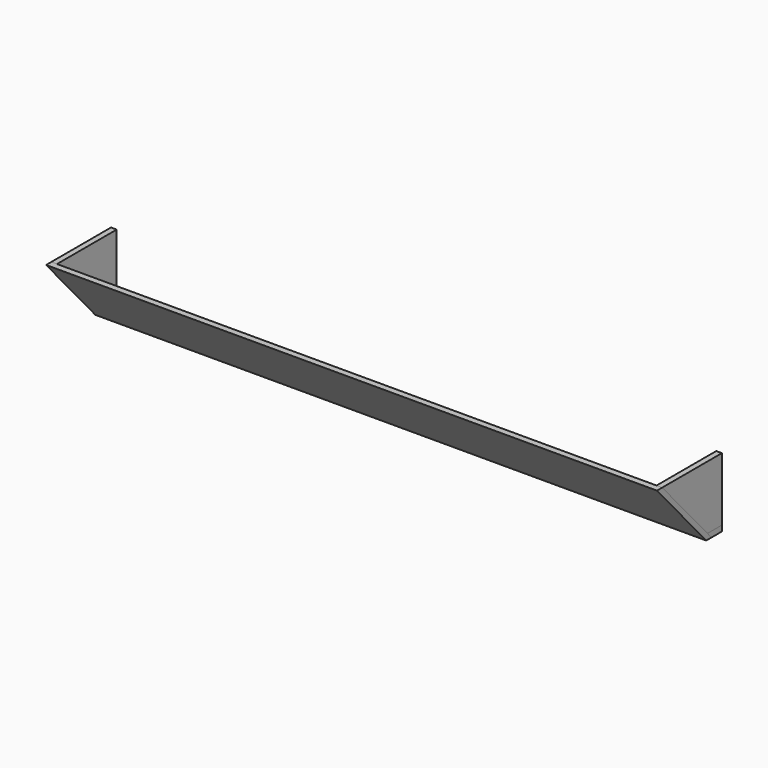
from build123d import *

# Parameters (mm, degrees)
F1_DEPTH = 15.875
F4_DEPTH = 1714.5
F6_DEPTH = 1714.5


with BuildPart() as f1:
    # F0 (on Right) → F1 (new body)
    with BuildSketch(Plane.YZ):
        Polygon((-50.8, 0), (0, 0), (0, 177.8), (-209.55, 177.8), align=None)
    extrude(amount=F1_DEPTH)


with BuildPart() as f4:
    # F3 (on face) → F4 (new body)
    with BuildSketch(Plane.YZ.offset(15.875)):
        Polygon((0, -15.875), (0, 0), (-50.8, 0), (-36.625893, -15.875), align=None)
    extrude(amount=-F4_DEPTH)


with BuildPart() as f6:
    # F5 (on face) → F6 (new body)
    with BuildSketch(Plane.YZ.offset(15.875)):
        Polygon((-36.625893, -15.875), (-209.55, 177.8), (-227.970779, 177.8), (-55.046672, -15.875), align=None)
    extrude(amount=-F6_DEPTH)


with BuildPart() as f7_1:
    # F7: copy of F1
    add(f1.part.moved(Location((-1698.625, 0, 0))))


solid = Compound([f1.part, f4.part, f6.part, f7_1.part])
